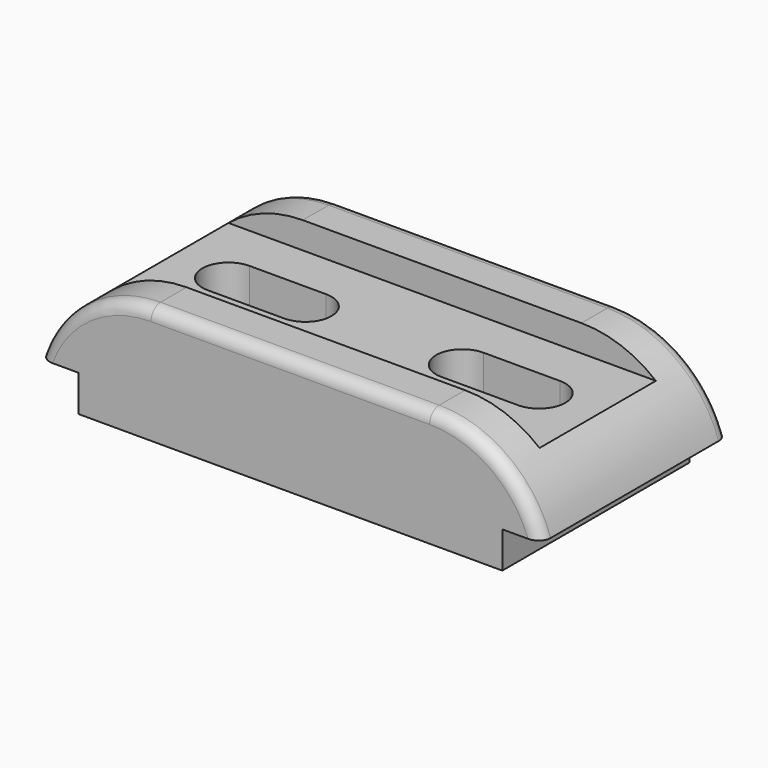
from build123d import *

# Parameters (mm, degrees)
F1_DEPTH      = 58
F3_DEPTH      = 58.001
F4_W          = 36
F4_H          = 6.6
F5_DEPTH      = 127
F5_DEPTH_BACK = 127
F7_DEPTH      = 29.001
F8_R          = 3
F9_DEPTH      = 25


with BuildPart() as f1:
    # F0 (on Front) → F1 (new body)
    with BuildSketch(Plane.XZ):
        with BuildLine():
            ThreePointArc((-60.907962, 9), (-61.979652, 4.556598), (-62.339865, 0))
            Line((-62.339865, 0), (-51.339865, 0))
            Line((-51.339865, 0), (-51.339865, 9))
            Line((-51.339865, 9), (-60.907962, 9))
        make_face()
        with BuildLine():
            ThreePointArc((-33.339865, 29), (-50.369251, 23.473389), (-60.907962, 9))
            Line((-60.907962, 9), (-51.339865, 9))
            Line((-51.339865, 9), (-51.339865, 0))
            Line((-51.339865, 0), (53.660135, 0))
            Line((53.660135, 0), (53.660135, 9))
            Line((53.660135, 9), (63.228233, 9))
            ThreePointArc((63.228233, 9), (52.689522, 23.473389), (35.660135, 29))
            Line((35.660135, 29), (-33.339865, 29))
        make_face()
        with BuildLine():
            Line((53.660135, 9), (53.660135, 0))
            Line((53.660135, 0), (64.660135, 0))
            ThreePointArc((64.660135, 0), (64.299923, 4.556598), (63.228233, 9))
            Line((63.228233, 9), (53.660135, 9))
        make_face()
    extrude(amount=F1_DEPTH)

    # F2 (on face) → F3 (cut, through all)
    with BuildSketch(Plane.XZ.offset(58)):
        with BuildLine():
            Line((-62.339865, 0), (-51.339865, 0))
            Line((-51.339865, 0), (-51.339865, 9))
            Line((-51.339865, 9), (-60.907962, 9))
            ThreePointArc((-60.907962, 9), (-61.979652, 4.556598), (-62.339865, 0))
        make_face()
        with BuildLine():
            Line((53.660135, 9), (53.660135, 0))
            Line((53.660135, 0), (64.660135, 0))
            ThreePointArc((64.660135, 0), (64.299923, 4.556598), (63.228233, 9))
            Line((63.228233, 9), (53.660135, 9))
        make_face()
    extrude(amount=-F3_DEPTH, mode=Mode.SUBTRACT)

    # F4 (on Right) → F5 (cut, two sides)
    with BuildSketch(Plane.YZ) as f5_sk:
        with Locations((-29, 25.7)):
            Rectangle(F4_W, F4_H)
    extrude(amount=F5_DEPTH, mode=Mode.SUBTRACT)
    extrude(f5_sk.sketch, amount=-F5_DEPTH_BACK, mode=Mode.SUBTRACT)

    # F6 (on face) → F7 (cut, through all)
    with BuildSketch(Plane(origin=(0, 0, 0), x_dir=(1, 0, 0), z_dir=(0, 0, -1))):
        with BuildLine():
            ThreePointArc((-37.339865, 35.5), (-43.839865, 29), (-37.339865, 22.5))
            Line((-37.339865, 22.5), (-18.339865, 22.5))
            ThreePointArc((-18.339865, 22.5), (-11.839865, 29), (-18.339865, 35.5))
            Line((-18.339865, 35.5), (-37.339865, 35.5))
        make_face()
        with BuildLine():
            ThreePointArc((20.660135, 35.611376), (14.160135, 29.111376), (20.660135, 22.611376))
            Line((20.660135, 22.611376), (39.660135, 22.611376))
            ThreePointArc((39.660135, 22.611376), (46.160135, 29.111376), (39.660135, 35.611376))
            Line((39.660135, 35.611376), (20.660135, 35.611376))
        make_face()
    extrude(amount=-F7_DEPTH, mode=Mode.SUBTRACT)

    # F8
    f8_edges = [f1.edges().sort_by_distance(p)[0] for p in [
        (1.160135, -58, 29),
        (1.160135, 0, 29),
    ]]
    fillet(f8_edges, radius=F8_R)

    # F6 (on face) → F9 (cut)
    with BuildSketch(Plane(origin=(0, 0, 0), x_dir=(1, 0, 0), z_dir=(0, 0, -1))):
        with BuildLine():
            ThreePointArc((-37.339865, 35.5), (-43.839865, 29), (-37.339865, 22.5))
            Line((-37.339865, 22.5), (-18.339865, 22.5))
            ThreePointArc((-18.339865, 22.5), (-11.839865, 29), (-18.339865, 35.5))
            Line((-18.339865, 35.5), (-37.339865, 35.5))
        make_face()
        with BuildLine():
            ThreePointArc((20.660135, 35.611376), (14.160135, 29.111376), (20.660135, 22.611376))
            Line((20.660135, 22.611376), (39.660135, 22.611376))
            ThreePointArc((39.660135, 22.611376), (46.160135, 29.111376), (39.660135, 35.611376))
            Line((39.660135, 35.611376), (20.660135, 35.611376))
        make_face()
    extrude(amount=F9_DEPTH, mode=Mode.SUBTRACT)


solid = f1.part
